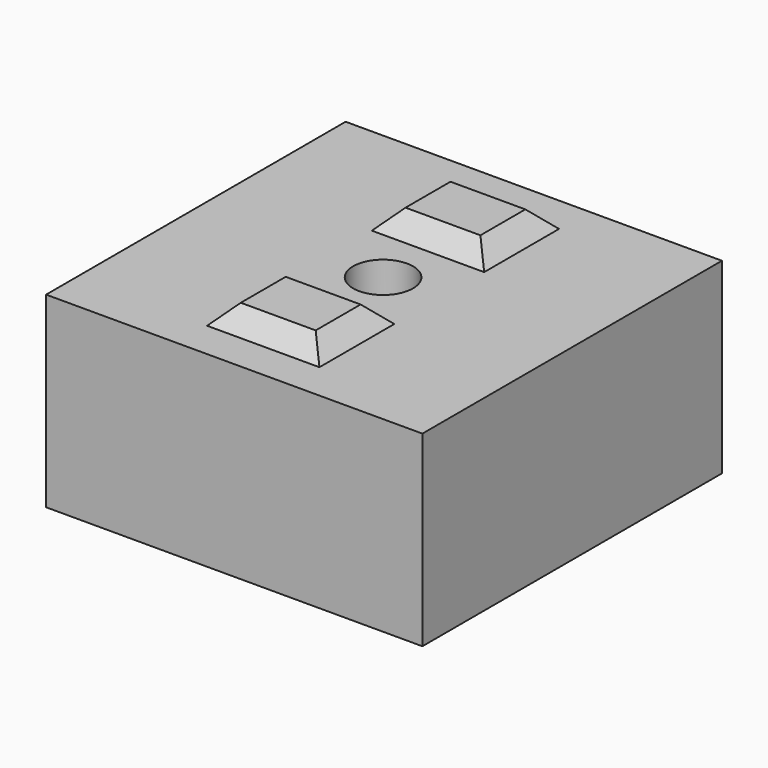
from build123d import *

# Parameters (mm, degrees)
SKETCH001_W       = 20
SKETCH001_H       = 20
PAD_DEPTH         = 10
SKETCH003_R       = 1.6
POCKET_DEPTH      = 0.001
POCKET_DEPTH_BACK = 10.001
SKETCH002_R       = 3.5
POCKET001_DEPTH   = 3
POCKET002_DEPTH   = 0.2
SKETCH005_W       = 3.2
SKETCH005_H       = 3.2
POCKET003_DEPTH   = 0.2
SKETCH006_W       = 6
SKETCH006_H       = 5
PAD001_DEPTH      = 1
PAD001_TAPER      = 45
PAD001_FACE19_W   = 20
PAD001_FACE19_H   = 10
PAD002_DEPTH      = 0.1


with BuildPart() as part:
    # Sketch001 → Pad (new body)
    with BuildSketch(Plane.XY):
        Rectangle(SKETCH001_W, SKETCH001_H)
    extrude(amount=PAD_DEPTH)

    # Sketch003 → Pocket (cut, two sides)
    with BuildSketch(Plane.XY) as pocket_sk:
        Circle(SKETCH003_R)
    extrude(amount=-POCKET_DEPTH, mode=Mode.SUBTRACT)
    extrude(pocket_sk.sketch, amount=POCKET_DEPTH_BACK, mode=Mode.SUBTRACT)

    # Sketch002 → Pocket001 (cut)
    with BuildSketch(Plane.XY):
        Circle(SKETCH002_R)
    extrude(amount=POCKET001_DEPTH, mode=Mode.SUBTRACT)

    # Sketch004 (on Face9 of Pocket001) → Pocket002 (cut)
    with BuildSketch(Plane(origin=(0, 0, 3), x_dir=(1, 0, 0), z_dir=(0, 0, -1))):
        with BuildLine():
            ThreePointArc((1.6, 3.1128764833), (0, 3.5), (-1.6, 3.1128764833))
            Line((-1.6, 3.1128764833), (-1.6, -3.1128764833))
            ThreePointArc((-1.6, -3.1128764833), (0, -3.5), (1.6, -3.1128764833))
            Line((1.6, 3.1128764833), (1.6, -3.1128764833))
        make_face()
    extrude(amount=-POCKET002_DEPTH, mode=Mode.SUBTRACT)

    # Sketch005 (on Face13 of Pocket002) → Pocket003 (cut)
    with BuildSketch(Plane(origin=(0, 0, 3.2), x_dir=(1, 0, 0), z_dir=(0, 0, -1))):
        Rectangle(SKETCH005_W, SKETCH005_H)
    extrude(amount=-POCKET003_DEPTH, mode=Mode.SUBTRACT)

    # Sketch006 (on Face11 of Pocket003) → Pad001 (join)
    with BuildSketch(Plane.XY.offset(10)):
        with Locations((0, 5.5)):
            Rectangle(SKETCH006_W, SKETCH006_H)
        with Locations((0, -5.5)):
            Rectangle(SKETCH006_W, SKETCH006_H)
    extrude(amount=PAD001_DEPTH, taper=PAD001_TAPER)

    # Pad001 Face19 → Pad002 (add)
    with BuildSketch(Plane(origin=(10, 0, 5), x_dir=(0, -1, 0), z_dir=(1, 0, 0))):
        Rectangle(PAD001_FACE19_W, PAD001_FACE19_H)
    extrude(amount=PAD002_DEPTH)


solid = part.part
